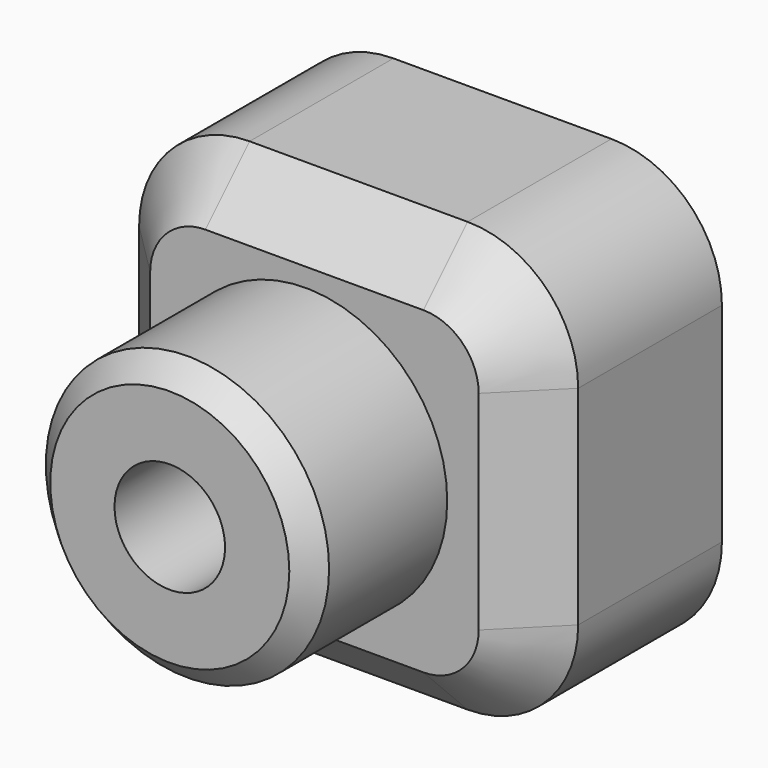
from build123d import *

# Parameters (mm, degrees)
F0_W     = 100.887247
F0_H     = 98.669946
F1_DEPTH = 53.981356
F2_R     = 25.4
F3_R     = 32.544511
F4_DEPTH = 39.004393
F6_D     = 25.4
F7_SIZE  = 12.7
F8_SIZE  = 5.08


with BuildPart() as f1:
    # F0 (on Front) → F1 (new body)
    with BuildSketch(Plane.XZ):
        with Locations((2.032529, 0.184774)):
            Rectangle(F0_W, F0_H)
    extrude(amount=F1_DEPTH)

    # F2
    f2_edges = [f1.edges().sort_by_distance(p)[0] for p in [
        (52.476153, -26.990678, 49.519747),
        (52.476153, -26.990678, -49.150199),
        (-48.411094, -26.990678, -49.150199),
        (-48.411094, -26.990678, 49.519747),
    ]]
    fillet(f2_edges, radius=F2_R)

    # F3 (on face) → F4 (join)
    with BuildSketch(Plane.XZ.offset(53.981356)):
        Circle(F3_R)
        Circle(F3_R)
    extrude(amount=F4_DEPTH)

    # F6 (through all)
    with Locations(Plane.XZ.offset(92.985749)):
        with Locations((0, 0)):
            Hole(F6_D / 2)

    # F7
    f7_edges = [f1.edges().sort_by_distance(p)[0] for p in [
        (-48.411094, -53.981356, 0.184774),
    ]]
    chamfer(f7_edges, length=F7_SIZE)

    # F8
    f8_edges = [f1.edges().sort_by_distance(p)[0] for p in [
        (-32.544511, -92.985749, 0),
    ]]
    chamfer(f8_edges, length=F8_SIZE)


solid = f1.part
